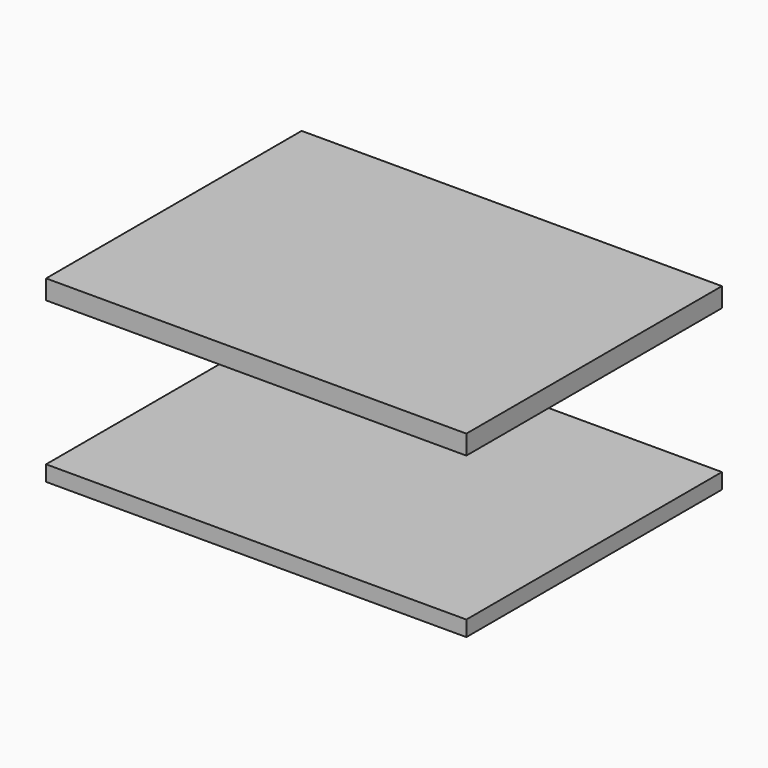
from build123d import *

# Parameters (mm, degrees)
F0_W     = 43.3976352215
F0_H     = 32.9854488373
F1_DEPTH = 2
F2_W     = 43.3976352215
F2_H     = 32.9854488373
F3_DEPTH = 16.5
F4_W     = 43.3976352215
F4_H     = 14.9
F5_DEPTH = 35


with BuildPart() as f1:
    # F0 (on Top) → F1 (new body)
    with BuildSketch(Plane.XY):
        with Locations((21.6988176107, 16.4927244186)):
            Rectangle(F0_W, F0_H)
    extrude(amount=F1_DEPTH)

    # F2 (on face) → F3 (join)
    with BuildSketch(Plane(origin=(0, 0, 0), x_dir=(1, 0, 0), z_dir=(0, 0, -1))):
        with Locations((21.6988176107, -16.4927244186)):
            Rectangle(F2_W, F2_H)
    extrude(amount=F3_DEPTH)

    # F4 (on face) → F5 (cut)
    with BuildSketch(Plane.XZ):
        with Locations((21.6988176107, -7.45)):
            Rectangle(F4_W, F4_H)
    extrude(amount=-F5_DEPTH, mode=Mode.SUBTRACT)


solid = f1.part
